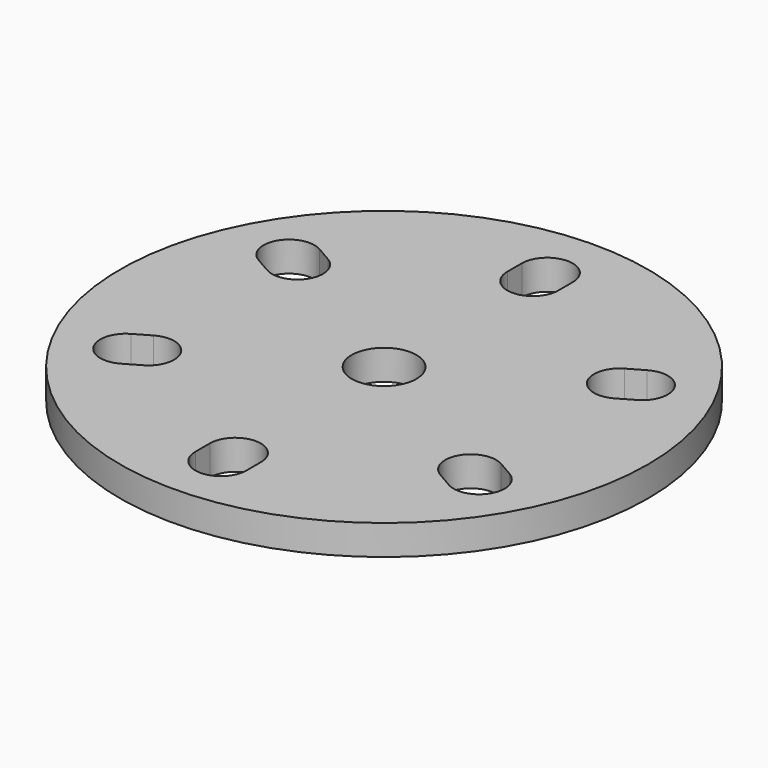
from build123d import *

# Parameters (mm, degrees)
F0_R     = 44
F0_R_2   = 5.4
F1_DEPTH = 5


with BuildPart() as f1:
    # F0 (on Top) → F1 (new body)
    with BuildSketch(Plane.XY):
        Circle(F0_R)
        with BuildLine():
            ThreePointArc((-27.3198637287, -20.6806079661), (-33.1254716948, -19.125), (-31.5698637287, -13.3193920339))
            Line((-31.5698637287, -13.3193920339), (-28.9717875173, -11.8193920339))
            ThreePointArc((-28.9717875173, -11.8193920339), (-23.1661795512, -13.375), (-24.7217875173, -19.1806079661))
            Line((-24.7217875173, -19.1806079661), (-27.3198637287, -20.6806079661))
        make_face(mode=Mode.SUBTRACT)
        with BuildLine():
            ThreePointArc((4.25, -34), (0, -38.25), (-4.25, -34))
            Line((-4.25, -34), (-4.25, -31))
            ThreePointArc((-4.25, -31), (0, -26.75), (4.25, -31))
            Line((4.25, -31), (4.25, -34))
        make_face(mode=Mode.SUBTRACT)
        with BuildLine():
            ThreePointArc((31.5698637287, -13.3193920339), (33.1254716948, -19.125), (27.3198637287, -20.6806079661))
            Line((27.3198637287, -20.6806079661), (24.7217875173, -19.1806079661))
            ThreePointArc((24.7217875173, -19.1806079661), (23.1661795512, -13.375), (28.9717875173, -11.8193920339))
            Line((28.9717875173, -11.8193920339), (31.5698637287, -13.3193920339))
        make_face(mode=Mode.SUBTRACT)
        with BuildLine():
            ThreePointArc((-31.5698637287, 13.3193920339), (-33.1254716948, 19.125), (-27.3198637287, 20.6806079661))
            Line((-27.3198637287, 20.6806079661), (-24.7217875173, 19.1806079661))
            ThreePointArc((-24.7217875173, 19.1806079661), (-23.1661795512, 13.375), (-28.9717875173, 11.8193920339))
            Line((-28.9717875173, 11.8193920339), (-31.5698637287, 13.3193920339))
        make_face(mode=Mode.SUBTRACT)
        Circle(F0_R_2, mode=Mode.SUBTRACT)
        with BuildLine():
            ThreePointArc((27.3198637287, 20.6806079661), (33.1254716948, 19.125), (31.5698637287, 13.3193920339))
            Line((31.5698637287, 13.3193920339), (28.9717875173, 11.8193920339))
            ThreePointArc((28.9717875173, 11.8193920339), (23.1661795512, 13.375), (24.7217875173, 19.1806079661))
            Line((24.7217875173, 19.1806079661), (27.3198637287, 20.6806079661))
        make_face(mode=Mode.SUBTRACT)
        with BuildLine():
            ThreePointArc((-4.25, 34), (0, 38.25), (4.25, 34))
            Line((4.25, 34), (4.25, 31))
            ThreePointArc((4.25, 31), (0, 26.75), (-4.25, 31))
            Line((-4.25, 31), (-4.25, 34))
        make_face(mode=Mode.SUBTRACT)
    extrude(amount=F1_DEPTH)


solid = f1.part
